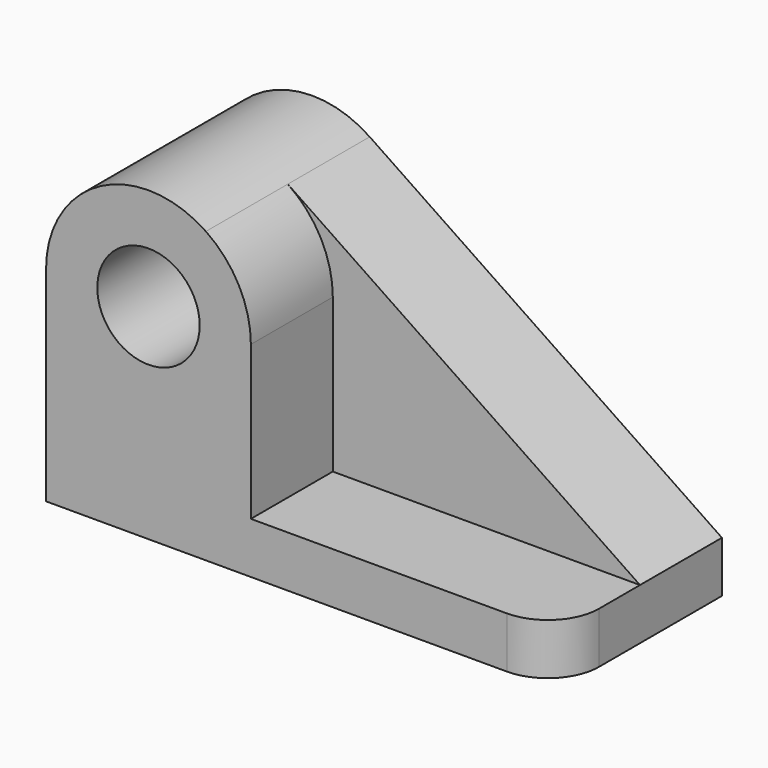
from build123d import *

# Parameters (mm, degrees)
F0_R     = 12.7
F1_DEPTH = 25.4
F2_R     = 12.7
F3_DEPTH = 25.4
F4_R     = 12.7


with BuildPart() as f1:
    # F0 (on Front) → F1 (new body)
    with BuildSketch(Plane.XZ):
        with BuildLine():
            Line((65.074071, -15.198466), (-22.288056, 43.935862))
            ThreePointArc((-22.288056, 43.935862), (-48.432189, 45.338133), (-61.925929, 22.901534))
            Line((-61.925929, 22.901534), (-61.925929, -27.898466))
            Line((-61.925929, -27.898466), (65.074071, -27.898466))
            Line((65.074071, -27.898466), (65.074071, -15.198466))
        make_face()
        with Locations((-36.525929, 22.901534)):
            Circle(F0_R, mode=Mode.SUBTRACT)
    extrude(amount=F1_DEPTH)

    # F2 (on face) → F3 (join)
    with BuildSketch(Plane.XZ.offset(25.4)):
        with BuildLine():
            Line((-11.125929, -15.198466), (-11.125929, 22.901534))
            ThreePointArc((-11.125929, 22.901534), (-14.08933, 34.807793), (-22.288056, 43.935862))
            ThreePointArc((-22.288056, 43.935862), (-48.432189, 45.338133), (-61.925929, 22.901534))
            Line((-61.925929, 22.901534), (-61.925929, -15.198466))
            Line((-61.925929, -15.198466), (-61.925929, -27.898466))
            Line((-61.925929, -27.898466), (65.074071, -27.898466))
            Line((65.074071, -27.898466), (65.074071, -15.198466))
            Line((65.074071, -15.198466), (-11.125929, -15.198466))
        make_face()
        with Locations((-36.525929, 22.901534)):
            Circle(F2_R, mode=Mode.SUBTRACT)
    extrude(amount=F3_DEPTH)

    # F4
    f4_edges = [f1.edges().sort_by_distance(p)[0] for p in [
        (65.074071, -50.8, -21.548466),
    ]]
    fillet(f4_edges, radius=F4_R)


solid = f1.part
